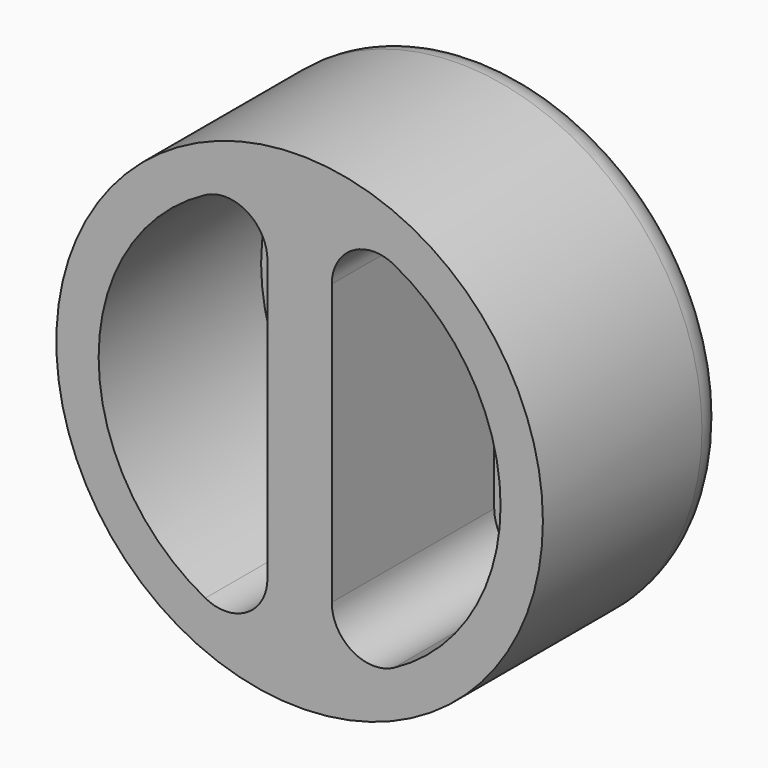
from build123d import *

# Parameters (mm, degrees)
F0_R     = 73.025
F1_DEPTH = 69.85
F3_DEPTH = 60.96
F4_R     = 12.7
F5_R     = 10.16


with BuildPart() as f1:
    # F0 (on Front) → F1 (new body)
    with BuildSketch(Plane.XZ):
        Circle(F0_R)
    extrude(amount=F1_DEPTH)

    # F2 (on face) → F3 (cut)
    with BuildSketch(Plane.XZ.offset(69.85)):
        with BuildLine():
            Line((-9.6547204396, -59.5473928752), (-9.6547204396, 59.5473928752))
            ThreePointArc((-9.6547204396, 59.5473928752), (-60.325, 0), (-9.6547204396, -59.5473928752))
        make_face()
        with BuildLine():
            ThreePointArc((9.652, -59.5478338901), (45.9421512611, -39.0950682631), (60.325, 0))
            ThreePointArc((60.325, 0), (45.9421512611, 39.0950682631), (9.652, 59.5478338901))
            Line((9.652, 59.5478338901), (9.652, -59.5478338901))
        make_face()
    extrude(amount=-F3_DEPTH, mode=Mode.SUBTRACT)

    # F4
    f4_edges = [f1.edges().sort_by_distance(p)[0] for p in [
        (9.652, -39.37, 59.547834),
        (-9.65472, -39.37, 59.547393),
        (9.652, -39.37, -59.547834),
        (-9.65472, -39.37, -59.547393),
    ]]
    fillet(f4_edges, radius=F4_R)

    # F5
    f5_edges = [f1.edges().sort_by_distance(p)[0] for p in [
        (-73.025, 0, 0),
    ]]
    fillet(f5_edges, radius=F5_R)


solid = f1.part
